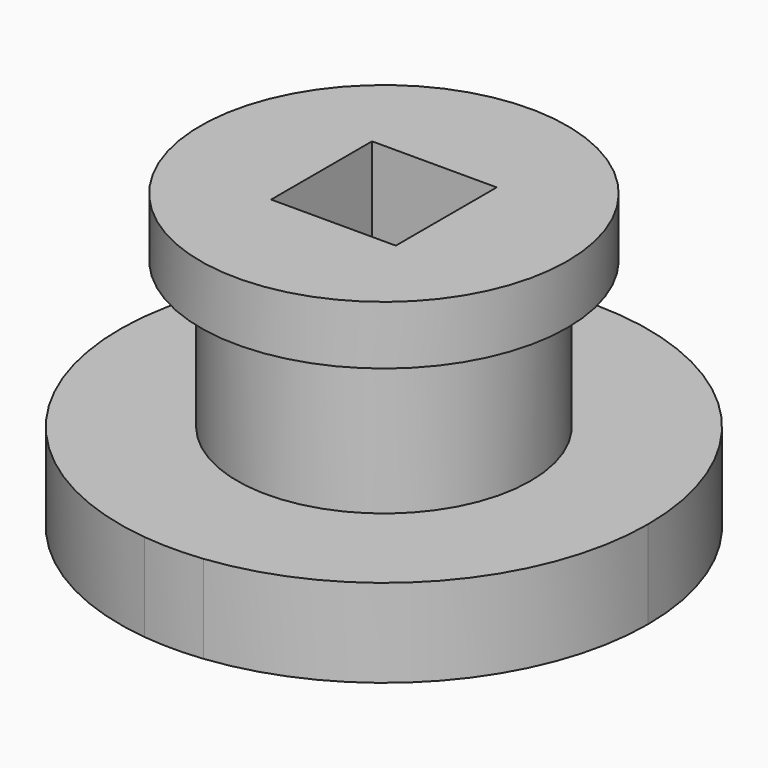
from build123d import *

# Parameters (mm, degrees)
F0_R     = 5
F1_DEPTH = 3
F0_W     = 4.25
F0_H     = 4.3
F2_DEPTH = 10
F3_R     = 6.25
F3_R_2   = 5
F3_W     = 4.25
F3_H     = 4.3
F4_DEPTH = 2


with BuildPart() as f1:
    # F0 (on Top) → F1 (new body)
    with BuildSketch(Plane.XY):
        with BuildLine():
            ThreePointArc((1, -8.944272), (6.708204, -6), (9, 0))
            ThreePointArc((9, 0), (-6, 6.708204), (-1, -8.944272))
            ThreePointArc((-1, -8.944272), (0, -9), (1, -8.944272))
        make_face()
        Circle(F0_R, mode=Mode.SUBTRACT)
    extrude(amount=F1_DEPTH)

    # F0 (on Top) → F2 (join)
    with BuildSketch(Plane.XY):
        Circle(F0_R)
        Rectangle(F0_W, F0_H, mode=Mode.SUBTRACT)
    extrude(amount=F2_DEPTH)

    # F3 (on face) → F4 (join)
    with BuildSketch(Plane.XY.offset(10)):
        Circle(F3_R)
        Circle(F3_R_2, mode=Mode.SUBTRACT)
        Circle(F3_R_2)
        Rectangle(F3_W, F3_H, mode=Mode.SUBTRACT)
    extrude(amount=-F4_DEPTH)


solid = f1.part
